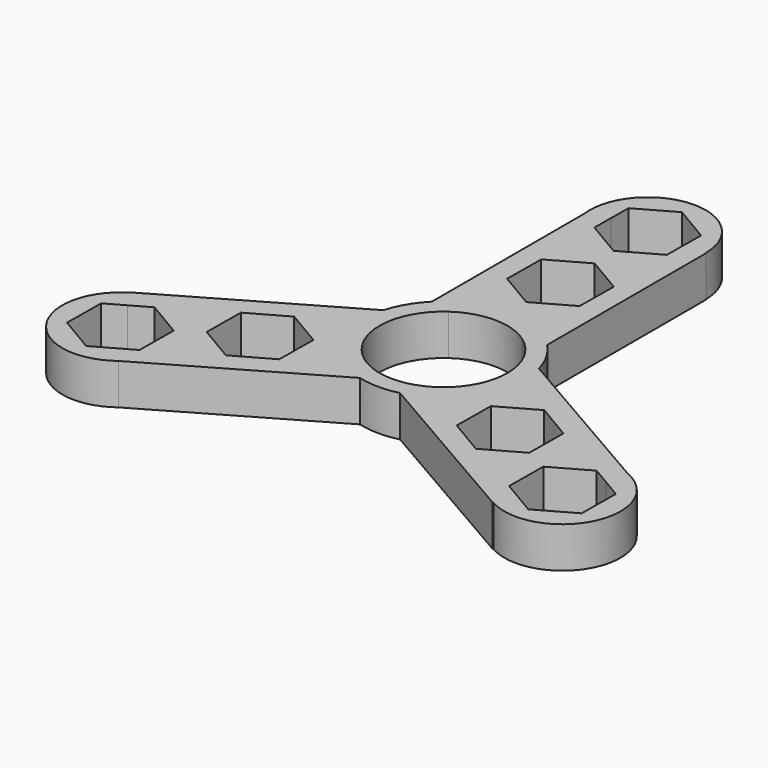
from build123d import *

# Parameters (mm, degrees)
F1_DEPTH = 7.05
F2_COUNT = 3


with BuildPart() as f1:
    # F0 (on Top) → F1 (new body)
    with BuildSketch(Plane.XY):
        with BuildLine():
            ThreePointArc((10, 43.9972005226), (-0.6298612389, 53.9773445506), (-9.9206549639, 42.7399793461))
            Line((-9.9206549639, 42.7399793461), (-9.9206549639, 43.9972005226))
            Line((-9.9206549639, 43.9972005226), (-6.3003222272, 43.9972005226))
            Line((-6.3003222272, 43.9972005226), (-6.2644989641, 47.6981147533))
            Line((-6.2644989641, 47.6981147533), (0.0704118404, 51.2742726216))
            Line((0.0704118404, 51.2742726216), (6.3349108045, 47.5761578682))
            Line((6.3349108045, 47.5761578682), (6.3002680318, 43.9972005226))
            Line((6.3002680318, 43.9972005226), (10, 43.9972005226))
        make_face()
        with BuildLine():
            Line((-9.9206549639, 43.9972005226), (-9.9206549639, 42.7399793461))
            ThreePointArc((-9.9206549639, 42.7399793461), (0.6298612389, 34.0170564946), (10, 43.9972005226))
            Line((10, 43.9972005226), (6.3002680318, 43.9972005226))
            Line((6.3002680318, 43.9972005226), (6.2644989641, 40.3018852467))
            Line((6.2644989641, 40.3018852467), (-0.0704118404, 36.7257273784))
            Line((-0.0704118404, 36.7257273784), (-6.3349108045, 40.4238421318))
            Line((-6.3349108045, 40.4238421318), (-6.3003222272, 43.9972005226))
            Line((-6.3003222272, 43.9972005226), (-9.9206549639, 43.9972005226))
        make_face()
        with BuildLine():
            ThreePointArc((-9.9206549639, 9.878289583), (0.1133775368, 13.9995409044), (10.0793450361, 9.7163163619))
            Line((10.0793450361, 9.7163163619), (10.0793450361, 43.9972005226))
            Line((10.0793450361, 43.9972005226), (10, 43.9972005226))
            ThreePointArc((10, 43.9972005226), (0.6298612389, 34.0170564946), (-9.9206549639, 42.7399793461))
            Line((-9.9206549639, 42.7399793461), (-9.9206549639, 9.878289583))
        make_face()
        Polygon((6.4861108845, 28.5761578682), (6.415699044, 21.3018852467), (0.0807882395, 17.7257273784), (-6.1837107246, 21.4238421318), (-6.1132988842, 28.6981147533), (0.2216119204, 32.2742726216), align=None, mode=Mode.SUBTRACT)
        with BuildLine():
            ThreePointArc((6.3718920076, 8.9972005226), (9.7928732858, 5.0646083568), (11.025, 0))
            ThreePointArc((11.025, 0), (-5.0646083568, -9.7928732858), (-6.3718920076, 8.9972005226))
            Line((-6.3718920076, 8.9972005226), (-9.9206549639, 8.9972005226))
            Line((-9.9206549639, 8.9972005226), (-9.9206549639, 9.878289583))
            ThreePointArc((-9.9206549639, 9.878289583), (-5.3437267195, -12.9400380505), (14, 0))
            ThreePointArc((14, 0), (12.982889326, 5.2387579394), (10.0793450361, 9.7163163619))
            Line((10.0793450361, 9.7163163619), (10.0793450361, 8.9972005226))
            Line((10.0793450361, 8.9972005226), (6.3718920076, 8.9972005226))
        make_face()
        with BuildLine():
            ThreePointArc((-6.3718920076, 8.9972005226), (0, 11.025), (6.3718920076, 8.9972005226))
            Line((6.3718920076, 8.9972005226), (10.0793450361, 8.9972005226))
            Line((10.0793450361, 8.9972005226), (10.0793450361, 9.7163163619))
            ThreePointArc((10.0793450361, 9.7163163619), (0.1133775368, 13.9995409044), (-9.9206549639, 9.878289583))
            Line((-9.9206549639, 9.878289583), (-9.9206549639, 8.9972005226))
            Line((-9.9206549639, 8.9972005226), (-6.3718920076, 8.9972005226))
        make_face()
    extrude(amount=F1_DEPTH)

    # F2: F1 ×3 about axis
    f2_axis = Axis((0, 0, 0), (0, 0, -1))


with BuildPart() as f1_1:
    add(f1.part)
    for i in range(1, F2_COUNT):
        add(f1.part.rotate(f2_axis, i * 360 / F2_COUNT))


solid = f1_1.part
